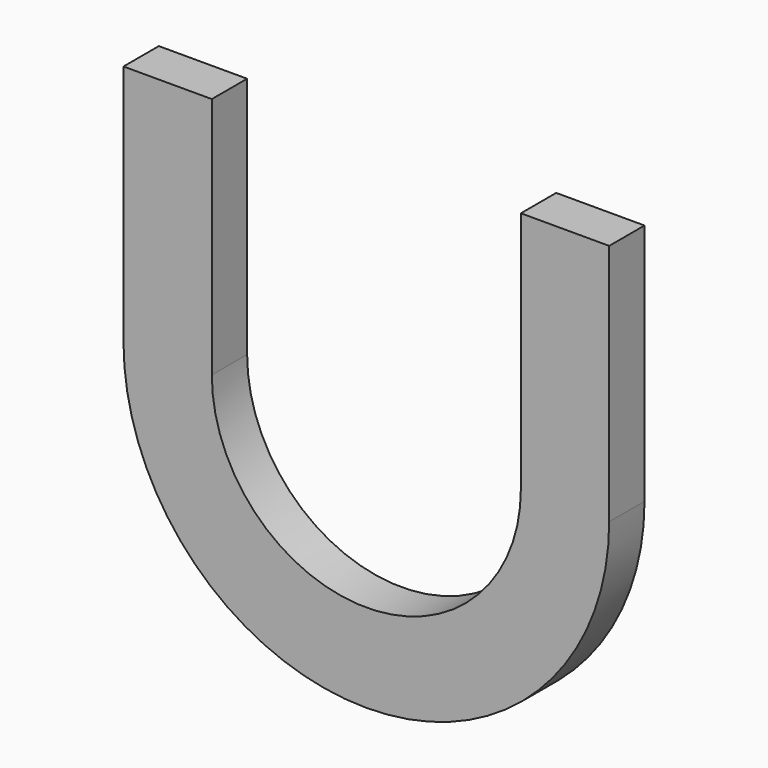
from build123d import *

# Parameters (mm, degrees)
F1_DEPTH = 25.4


with BuildPart() as f1:
    # F0 (on Front) → F1 (new body)
    with BuildSketch(Plane.XZ):
        with BuildLine():
            Line((-139.7, 139.7), (-139.7, 0))
            ThreePointArc((-139.7, 0), (0, -139.7), (139.7, 0))
            Line((139.7, 0), (139.7, 139.7))
            Line((139.7, 139.7), (88.9, 139.7))
            Line((88.9, 139.7), (88.9, 0))
            ThreePointArc((88.9, 0), (0, -88.9), (-88.9, 0))
            Line((-88.9, 0), (-88.9, 139.7))
            Line((-88.9, 139.7), (-139.7, 139.7))
        make_face()
    extrude(amount=F1_DEPTH)


solid = f1.part
